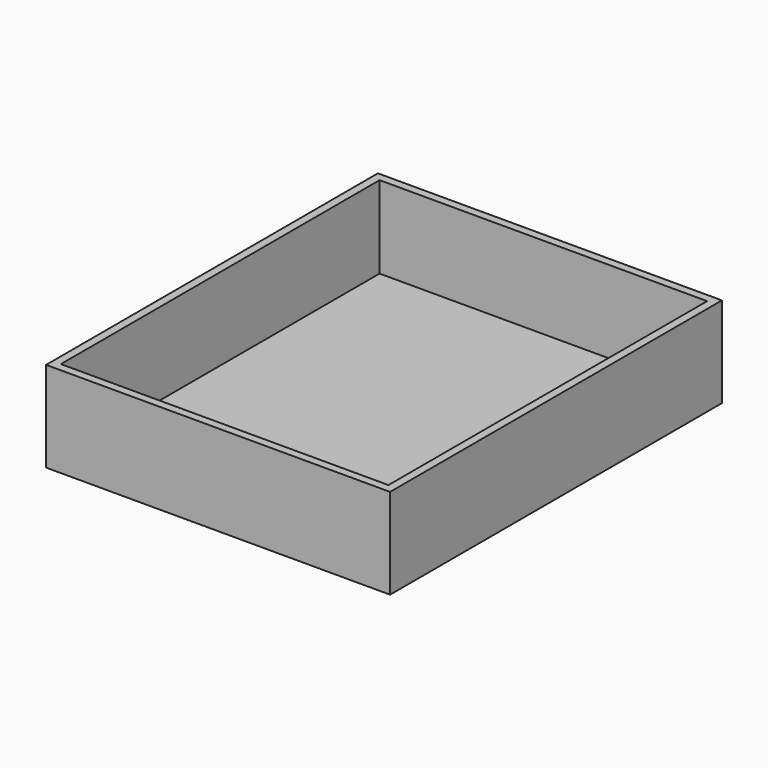
from build123d import *

# Parameters (mm, degrees)
F0_W     = 111.9927763939
F0_H     = 27.0903408527
F1_DEPTH = 25.4
F0_W_2   = 101.1313535273
F0_H_2   = 122.9882985353
F3_T     = 2.54


with BuildPart() as f1:
    # F0 (on Top) → F1 (new body)
    with BuildSketch(Plane.XY):
        with Locations((-55.9963881969, 277.6345461607)):
            Rectangle(F0_W, F0_H)
    extrude(amount=F1_DEPTH)


with BuildPart() as f1b:
    # F0 (on Top) → F1, piece 2 (new body)
    with BuildSketch(Plane.XY):
        with Locations((-10.9623651952, 61.4941492677)):
            Rectangle(F0_W_2, F0_H_2)
    extrude(amount=F1_DEPTH)

    # F3
    f3_openings = [f1b.faces().sort_by_distance(p)[0] for p in [
        (-10.962365, 61.494149, 25.4),
    ]]
    offset(amount=F3_T, openings=f3_openings, kind=Kind.INTERSECTION)


solid = f1b.part
